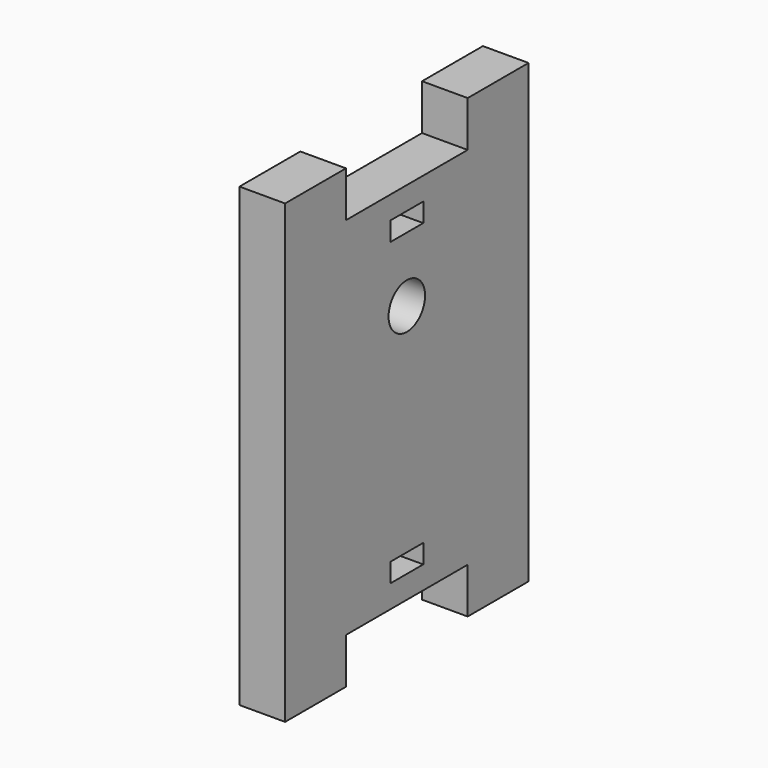
from build123d import *

# Parameters (mm, degrees)
PAD_DEPTH       = 6
SKETCH001_R     = 3
POCKET_DEPTH    = 6.001
SKETCH002_W     = 5.4
SKETCH002_H     = 2.5
POCKET001_DEPTH = 150.72142


with BuildPart() as part:
    # Sketch → Pad (new body)
    with BuildSketch(Plane.YZ):
        Polygon((-20, -30), (-20, 30), (-10, 30), (-10, 24), (10, 24), (10, 30), (20, 30), (20, -30), (10, -30), (10, -24), (-10, -24), (-10, -30), align=None)
    extrude(amount=PAD_DEPTH)

    # Sketch001 (on Face14 of Pad) → Pocket (cut, through all)
    with BuildSketch(Plane.YZ.offset(6)):
        with Locations((0, 10)):
            Circle(SKETCH001_R)
    extrude(amount=-POCKET_DEPTH, mode=Mode.SUBTRACT)

    # Sketch002 (on Face5 of Pocket) → Pocket001 (cut, through all)
    with BuildSketch(Plane.YZ.offset(6)):
        with Locations((0, 19.75)):
            Rectangle(SKETCH002_W, SKETCH002_H)
    pocket001 = extrude(amount=-POCKET001_DEPTH, mode=Mode.SUBTRACT)

    # Mirrored: Pocket001 across Sketch002 H_Axis
    add(pocket001.mirror(Plane(origin=(6, 0, 0), x_dir=(1, 0, 0), z_dir=(0, 0, 1))), mode=Mode.SUBTRACT)


solid = part.part
